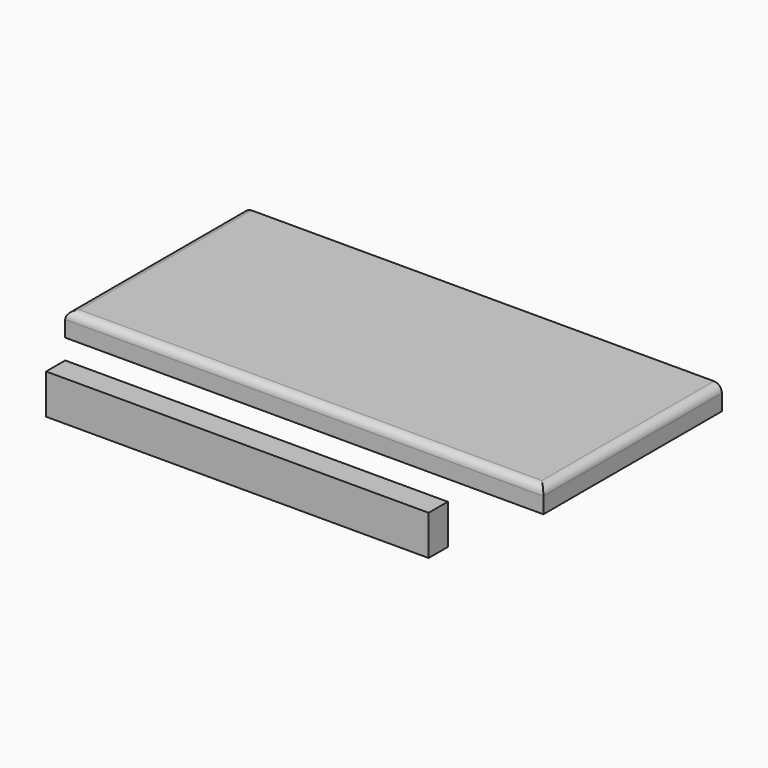
from build123d import *

# Parameters (mm, degrees)
F0_W     = 381
F0_H     = 177.8
F1_DEPTH = 19.05
F2_R     = 6.35
F3_W     = 304.8
F3_H     = 31.75
F4_DEPTH = 19.05


with BuildPart() as f1:
    # F0 (on Top) → F1 (new body)
    with BuildSketch(Plane.XY):
        with Locations((190.5, 88.9)):
            Rectangle(F0_W, F0_H)
    extrude(amount=F1_DEPTH)

    # F2
    f2_edges = [f1.edges().sort_by_distance(p)[0] for p in [
        (0, 88.9, 19.05),
        (190.5, 0, 19.05),
        (381, 88.9, 19.05),
    ]]
    fillet(f2_edges, radius=F2_R)


with BuildPart() as f4:
    # F3 (on Front) → F4 (new body)
    with BuildSketch(Plane.XZ):
        with Locations((152.4, -31.841967)):
            Rectangle(F3_W, F3_H)
    extrude(amount=F4_DEPTH)


solid = Compound([f1.part, f4.part])
